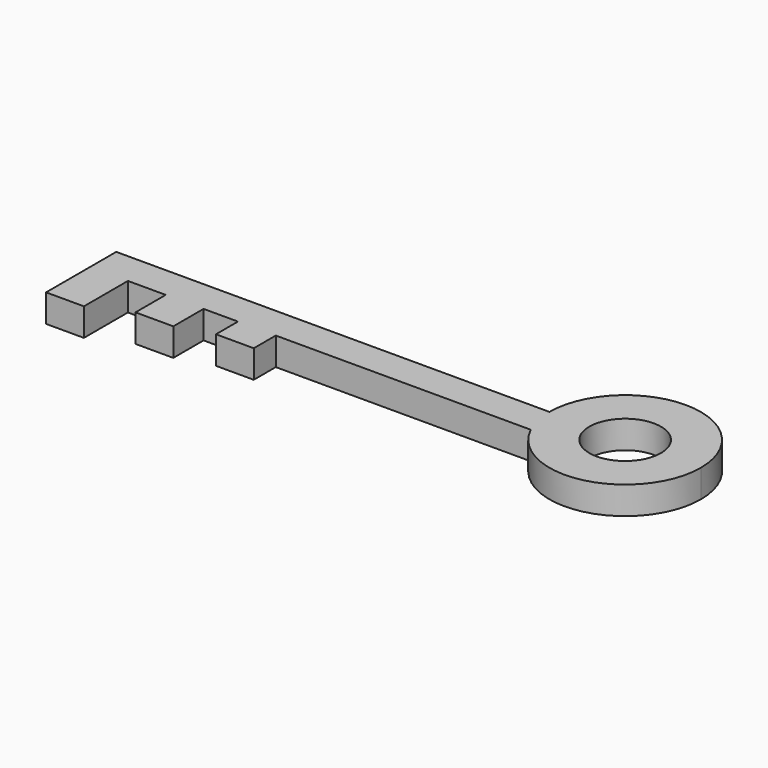
from build123d import *

# Parameters (mm, degrees)
F1_DEPTH = 2.46395
F2_D     = 6.35


with BuildPart() as f1:
    # F0 (on Top) → F1 (new body)
    with BuildSketch(Plane.XY):
        with BuildLine():
            ThreePointArc((-6.05011, -2.8956), (1.484625, -6.540965), (6.707334, 0))
            ThreePointArc((6.707334, 0), (0, 6.707334), (-6.707334, 0))
            ThreePointArc((-6.707334, 0), (-6.540965, -1.484625), (-6.05011, -2.8956))
        make_face()
        with BuildLine():
            ThreePointArc((-6.05011, -2.8956), (-6.540965, -1.484625), (-6.707334, 0))
            Line((-6.707334, 0), (-45.110401, 0))
            Line((-45.110401, 0), (-45.110401, -7.772401))
            Line((-45.110401, -7.772401), (-41.757599, -7.772401))
            Line((-41.757599, -7.772401), (-41.757599, -2.8956))
            Line((-41.757599, -2.8956), (-38.4048, -2.8956))
            Line((-38.4048, -2.8956), (-38.4048, -6.2484))
            Line((-38.4048, -6.2484), (-35.052001, -6.2484))
            Line((-35.052001, -6.2484), (-35.052001, -2.8956))
            Line((-35.052001, -2.8956), (-32.003999, -2.8956))
            Line((-32.003999, -2.8956), (-32.003999, -5.334001))
            Line((-32.003999, -5.334001), (-28.651198, -5.334001))
            Line((-28.651198, -5.334001), (-28.651198, -2.8956))
            Line((-28.651198, -2.8956), (-6.05011, -2.8956))
        make_face()
    extrude(amount=F1_DEPTH)

    # F2 (through all)
    with Locations(Plane(origin=(0, 0, 0), x_dir=(1, 0, 0), z_dir=(0, 0, -1))):
        with Locations((0, 0)):
            Hole(F2_D / 2)


solid = f1.part
